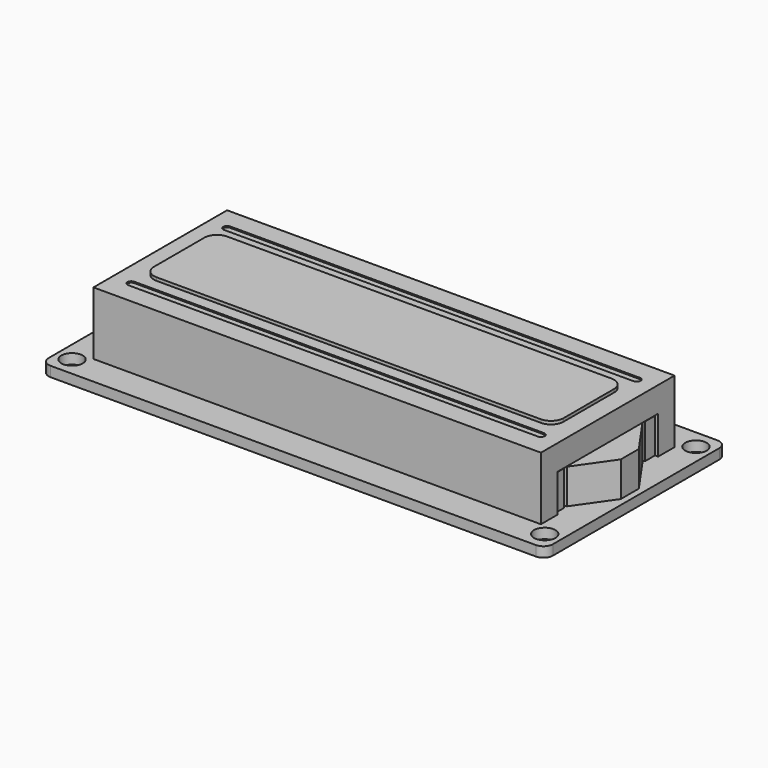
from build123d import *

# Parameters (mm, degrees)
SKETCH_W     = 80
SKETCH_H     = 36
SKETCH_R     = 1.7
SKETCH_R_2   = 0.5
PAD_DEPTH    = 1.6
FILLET_R     = 1.5
PAD001_DEPTH = 5.54
SKETCH003_W  = 71
SKETCH003_H  = 26.5
PAD002_DEPTH = 10
BOX_W        = 20
BOX_H        = 6
BOX_DEPTH    = 72
BOX001_W     = 26
BOX001_H     = 4
BOX001_DEPTH = 26
POCKET_DEPTH = 0.2
SKETCH005_W  = 65
SKETCH005_H  = 14
PAD003_DEPTH = 1
FILLET001_R  = 2


with BuildPart() as body:
    # Sketch → Pad (new body)
    with BuildSketch(Plane.XY):
        Rectangle(SKETCH_W, SKETCH_H)
        with Locations((-37.5, 15)):
            Circle(SKETCH_R, mode=Mode.SUBTRACT)
        with Locations((37.5, 15)):
            Circle(SKETCH_R, mode=Mode.SUBTRACT)
        with Locations((37.5, -15)):
            Circle(SKETCH_R, mode=Mode.SUBTRACT)
        with Locations((-37.5, -15)):
            Circle(SKETCH_R, mode=Mode.SUBTRACT)
        with Locations((-32, 16)):
            Circle(SKETCH_R_2, mode=Mode.SUBTRACT)
        with Locations((-29.46, 16)):
            Circle(SKETCH_R_2, mode=Mode.SUBTRACT)
        with Locations((-26.92, 16)):
            Circle(SKETCH_R_2, mode=Mode.SUBTRACT)
        with Locations((-24.38, 16)):
            Circle(SKETCH_R_2, mode=Mode.SUBTRACT)
        with Locations((-21.84, 16)):
            Circle(SKETCH_R_2, mode=Mode.SUBTRACT)
        with Locations((-19.3, 16)):
            Circle(SKETCH_R_2, mode=Mode.SUBTRACT)
        with Locations((-16.76, 16)):
            Circle(SKETCH_R_2, mode=Mode.SUBTRACT)
        with Locations((-11.68, 16)):
            Circle(SKETCH_R_2, mode=Mode.SUBTRACT)
        with Locations((-14.22, 16)):
            Circle(SKETCH_R_2, mode=Mode.SUBTRACT)
        with Locations((-9.14, 16)):
            Circle(SKETCH_R_2, mode=Mode.SUBTRACT)
        with Locations((-6.6, 16)):
            Circle(SKETCH_R_2, mode=Mode.SUBTRACT)
        with Locations((-4.06, 16)):
            Circle(SKETCH_R_2, mode=Mode.SUBTRACT)
        with Locations((-1.52, 16)):
            Circle(SKETCH_R_2, mode=Mode.SUBTRACT)
        with Locations((1.02, 16)):
            Circle(SKETCH_R_2, mode=Mode.SUBTRACT)
        with Locations((3.56, 16)):
            Circle(SKETCH_R_2, mode=Mode.SUBTRACT)
        with Locations((6.1, 16)):
            Circle(SKETCH_R_2, mode=Mode.SUBTRACT)
    extrude(amount=-PAD_DEPTH)

    # Fillet
    fillet_edges = [body.edges().sort_by_distance(p)[0] for p in [
        (40, -18, -0.8),
        (-40, -18, -0.8),
        (40, 18, -0.8),
        (-40, 18, -0.8),
    ]]
    fillet(fillet_edges, radius=FILLET_R)


with BuildPart() as body001:
    # Sketch002 → Pad001 (new body)
    with BuildSketch(Plane.XY):
        Polygon((-35, 7.5), (-5, 7.5), (-5, 8), (-35, 8), (-35, 11.5), (35, 11.5), (35, 8), (5, 8), (5, 7.5), (35, 7.5), (39, 1.787408), (39, -1.787408), (35, -7.5), (5, -7.5), (5, -8), (35, -8), (35, -11.5), (-35, -11.5), (-35, -8), (-5, -8), (-5, -7.5), (-35, -7.5), align=None)
    extrude(amount=PAD001_DEPTH)


with BuildPart() as body002:
    # Sketch003 → Pad002 (new body)
    with BuildSketch(Plane.XY):
        Rectangle(SKETCH003_W, SKETCH003_H)
    extrude(amount=PAD002_DEPTH)

    # Box → Box (cut)
    with BuildSketch(Plane(origin=(-36, -10, 0), x_dir=(0, 1, 0), z_dir=(1, 0, 0))):
        with Locations((10, 3)):
            Rectangle(BOX_W, BOX_H)
    extrude(amount=BOX_DEPTH, mode=Mode.SUBTRACT)

    # Box001 → Box001 (cut)
    with BuildSketch(Plane(origin=(5, 13, 0), x_dir=(1, 0, 0), z_dir=(0, -1, 0))):
        with Locations((13, 2)):
            Rectangle(BOX001_W, BOX001_H)
    box001 = extrude(amount=BOX001_DEPTH, mode=Mode.SUBTRACT)

    # Sketch004 (on Face6 of Pad002) → Pocket (cut)
    with BuildSketch(Plane.XY.offset(10)):
        with BuildLine():
            ThreePointArc((-32.5, 10.1), (-33.1, 9.5), (-32.5, 8.9))
            Line((-32.5, 8.9), (32.5, 8.9))
            ThreePointArc((32.5, 8.9), (33.1, 9.5), (32.5, 10.1))
            Line((-32.5, 10.1), (32.5, 10.1))
        make_face()
    pocket = extrude(amount=-POCKET_DEPTH, mode=Mode.SUBTRACT)

    # Mirrored: Pocket across XZ
    add(pocket.mirror(Plane.XZ), mode=Mode.SUBTRACT)

    # Mirrored001: Box001 across YZ
    add(box001.mirror(Plane.YZ), mode=Mode.SUBTRACT)


with BuildPart() as body003:
    # Sketch005 → Pad003 (new body)
    with BuildSketch(Plane.XY):
        Rectangle(SKETCH005_W, SKETCH005_H)
    extrude(amount=PAD003_DEPTH)

    # Fillet001
    fillet001_edges = [body003.edges().sort_by_distance(p)[0] for p in [
        (32.5, 7, 0.5),
        (32.5, -7, 0.5),
        (-32.5, 7, 0.5),
        (-32.5, -7, 0.5),
    ]]
    fillet(fillet001_edges, radius=FILLET001_R)


with BuildPart() as body003_1:
    # Body003 placement: moved
    add(body003.part.moved(Location((0, 0, 9.5))))


solid = Compound([body.part, body001.part, body002.part, body003_1.part])
